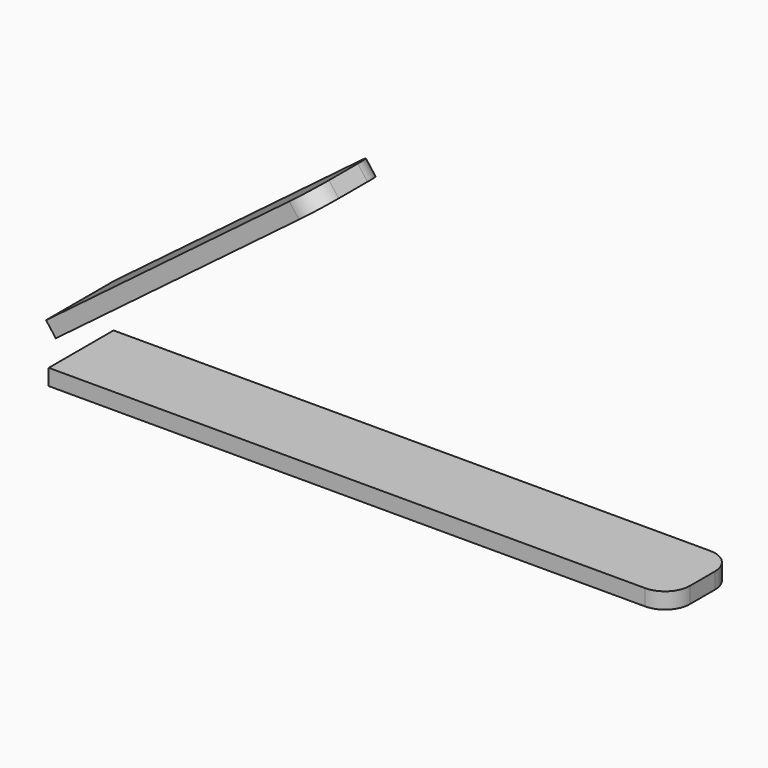
from build123d import *

# Parameters (mm, degrees)
F3_W     = 127.312735
F3_H     = 16.599134
F5_DEPTH = 3.302
F2_W     = 67.540506
F2_H     = 17.526
F6_DEPTH = 3.302
F7_R     = 5.08
F7_2_R   = 5.08


with BuildPart() as f5:
    # F3 (on Top) → F5 (new body)
    with BuildSketch(Plane.XY):
        with Locations((63.656367, -8.299567)):
            Rectangle(F3_W, F3_H)
    extrude(amount=F5_DEPTH)

    # F7#2
    f7_2_edges = [f5.edges().sort_by_distance(p)[0] for p in [
        (127.312735, 0, 1.651),
        (127.312735, -16.599134, 1.651),
    ]]
    fillet(f7_2_edges, radius=F7_2_R)


with BuildPart() as f6:
    # F2 (on face) → F6 (new body)
    with BuildSketch(Plane(origin=(-5.864446, 0, 7.766564), x_dir=(0.798046, 0, 0.602596), z_dir=(-0.602596, 0, 0.798046))):
        with Locations((41.365848, -8.763)):
            Rectangle(F2_W, F2_H)
    extrude(amount=-F6_DEPTH)

    # F7
    f7_edges = [f6.edges().sort_by_distance(p)[0] for p in [
        (55.092533, 0, 51.725704),
        (55.092533, -17.526, 51.725704),
    ]]
    fillet(f7_edges, radius=F7_R)


solid = Compound([f5.part, f6.part])
